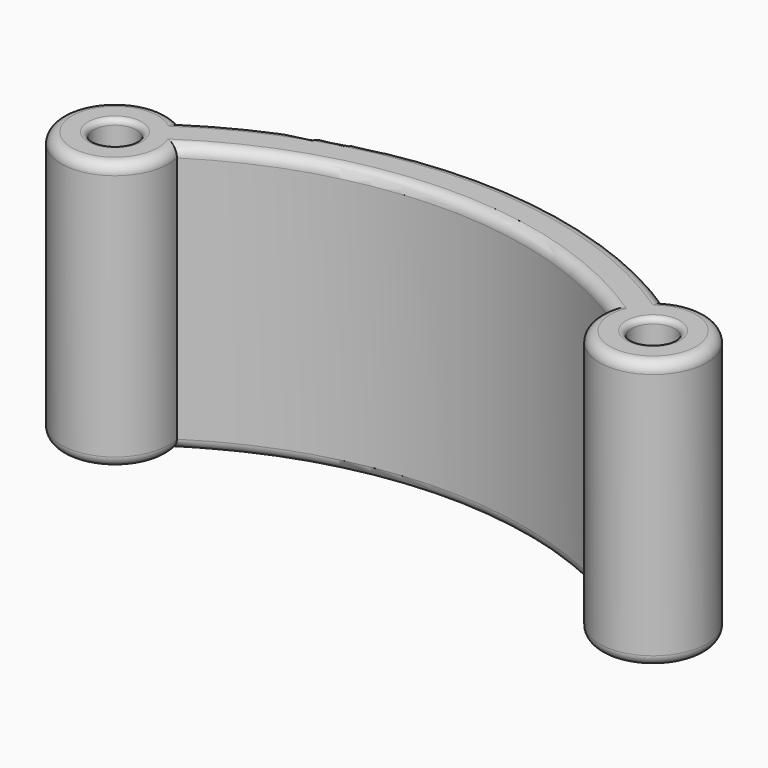
from build123d import *

# Parameters (mm, degrees)
F0_R     = 2
F1_DEPTH = 25
F2_R     = 0.5
F3_R     = 1


with BuildPart() as f1:
    # F0 (on Top) → F1 (new body)
    with BuildSketch(Plane.XY):
        with BuildLine():
            ThreePointArc((47.492673, 4.325889), (25, 11.009099), (2.507327, 4.325889))
            ThreePointArc((2.507327, 4.325889), (-4.030574, -2.958796), (4.878422, 1.095901))
            ThreePointArc((4.878422, 1.095901), (25, 7.009099), (45.121578, 1.095901))
            ThreePointArc((45.121578, 1.095901), (54.030574, -2.958796), (47.492673, 4.325889))
        make_face()
        Circle(F0_R, mode=Mode.SUBTRACT)
        with Locations((50, 0)):
            Circle(F0_R, mode=Mode.SUBTRACT)
    extrude(amount=F1_DEPTH)

    # F2
    f2_edges = [f1.edges().sort_by_distance(p)[0] for p in [
        (-2, 0, 0),
        (48, 0, 0),
        (48, 0, 25),
        (-2, 0, 25),
    ]]
    fillet(f2_edges, radius=F2_R)

    # F3
    f3_edges = [f1.edges().sort_by_distance(p)[0] for p in [
        (54.030574, -2.958796, 25),
        (25, 7.009099, 25),
        (25, 11.009099, 25),
        (-4.030574, -2.958796, 25),
        (25, 7.009099, 0),
        (-4.030574, -2.958796, 0),
        (25, 11.009099, 0),
        (54.030574, -2.958796, 0),
    ]]
    fillet(f3_edges, radius=F3_R)


solid = f1.part
